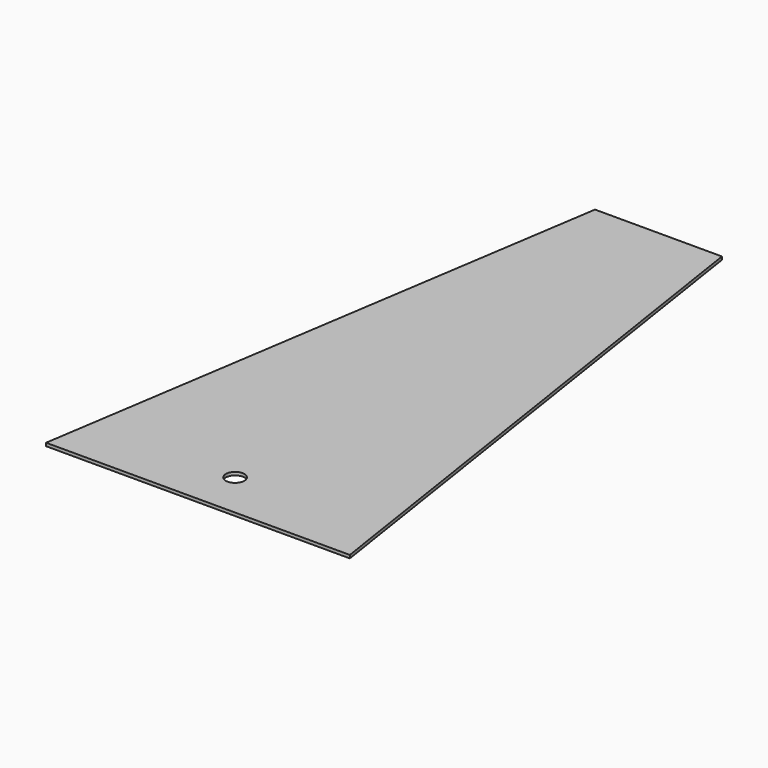
from build123d import *

# Parameters (mm, degrees)
F0_R     = 3
F1_DEPTH = 1


with BuildPart() as f1:
    # F0 (on Top) → F1 (new body)
    with BuildSketch(Plane.XY):
        Polygon((-20.5, 166), (-46, 0), (-49.072289, -20), (49.072289, -20), (20.5, 166), align=None)
        with Locations((0, -5)):
            Circle(F0_R, mode=Mode.SUBTRACT)
    extrude(amount=F1_DEPTH)


solid = f1.part
